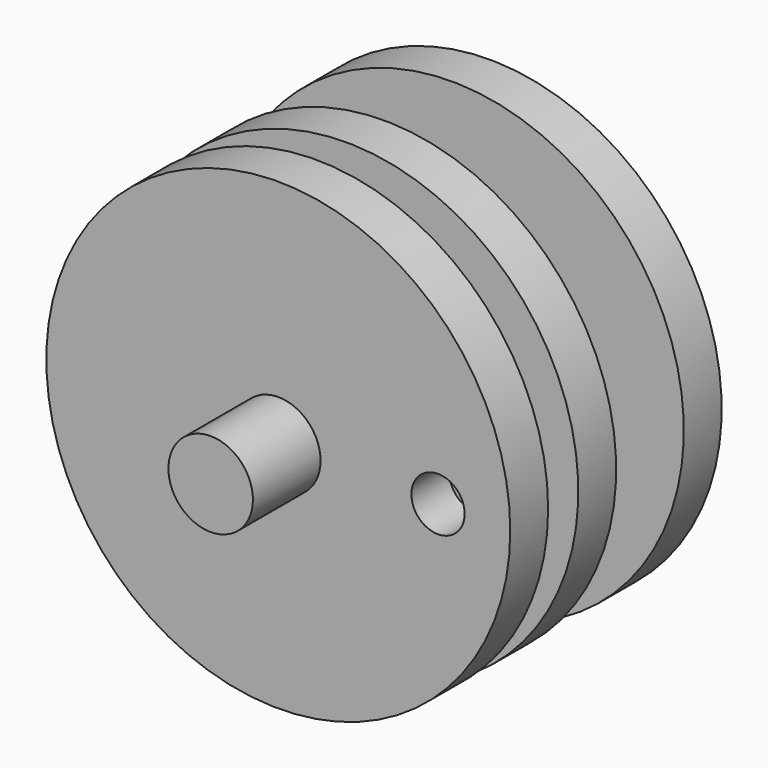
from build123d import *

# Parameters (mm, degrees)
F0_R      = 104.574086
F0_R_2    = 11.999976
F1_DEPTH  = 21.336
F2_R      = 19.05
F3_DEPTH  = 38.1
F5_R      = 104.57561
F5_R_2    = 12.0015
F5_R_3    = 19.05
F6_DEPTH  = 21.336
F7_DEPTH  = 80.772
F9_R      = 104.5845
F9_R_2    = 12.0015
F10_DEPTH = 21.336


with BuildPart() as f1:
    # F0 (on Front) → F1 (new body)
    with BuildSketch(Plane.XZ):
        Circle(F0_R)
        with Locations((72.00011, 0)):
            Circle(F0_R_2, mode=Mode.SUBTRACT)
    extrude(amount=-F1_DEPTH)

    # F2 (on face) → F3 (join)
    with BuildSketch(Plane.XZ):
        Circle(F2_R)
    extrude(amount=F3_DEPTH)


with BuildPart() as f6:
    # F5 (on offset) → F6 (new body)
    with BuildSketch(Plane(origin=(0, 38.354, 0), x_dir=(-1, 0, 0), z_dir=(0, 1, 0))):
        Circle(F5_R)
        with Locations((-72.00011, 0)):
            Circle(F5_R_2, mode=Mode.SUBTRACT)
        Circle(F5_R_3, mode=Mode.SUBTRACT)
    extrude(amount=F6_DEPTH)

    # F5 (on offset) → F7 (join)
    with BuildSketch(Plane(origin=(0, 38.354, 0), x_dir=(-1, 0, 0), z_dir=(0, 1, 0))):
        Circle(F5_R_3)
    extrude(amount=F7_DEPTH)

    # F9 (on offset) → F10 (join)
    with BuildSketch(Plane(origin=(0, 97.79, 0), x_dir=(-1, 0, 0), z_dir=(0, 1, 0))):
        Circle(F9_R)
        with Locations((0, -72.009)):
            Circle(F9_R_2, mode=Mode.SUBTRACT)
    extrude(amount=F10_DEPTH)


solid = Compound([f1.part, f6.part])
